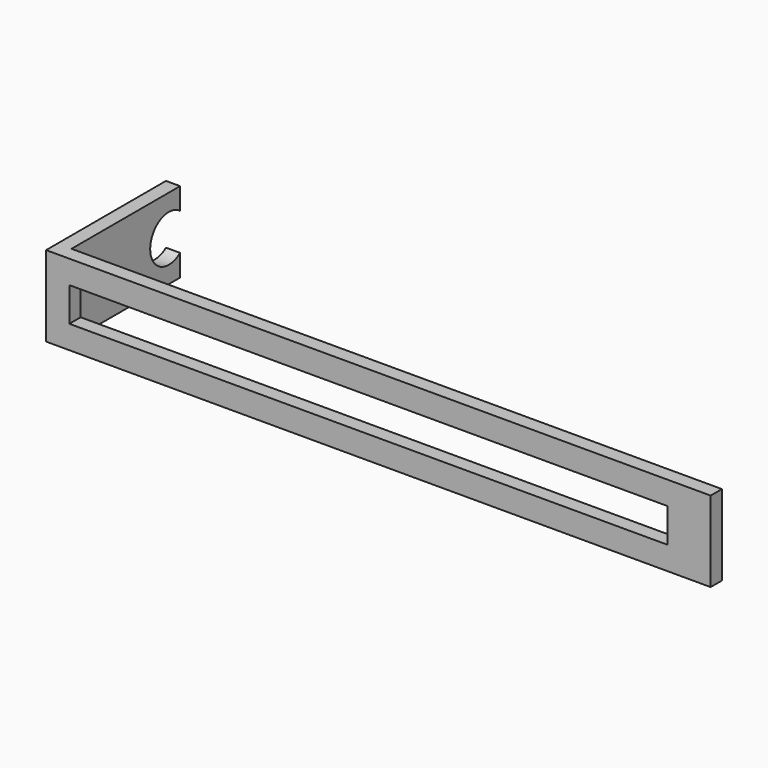
from build123d import *

# Parameters (mm, degrees)
CYLINDER026_R     = 7
CYLINDER026_DEPTH = 64
BOX019_W          = 24.25
BOX019_H          = 40.85
BOX019_DEPTH      = 4.25
BOX026_W          = 180
BOX026_H          = 4.25
BOX026_DEPTH      = 10.25
BOX017_W          = 200
BOX017_H          = 4.25
BOX017_DEPTH      = 24.25


with BuildPart() as syringe2_cylinder001:
    # Cylinder026 → Cylinder026 (new body)
    with BuildSketch(Plane(origin=(-110, 36.6, 15.125), x_dir=(0, 0, 1), z_dir=(-1, 0, 0))):
        Circle(CYLINDER026_R)
    extrude(amount=CYLINDER026_DEPTH)


with BuildPart() as cube002:
    # Box019 → Box019 (new body)
    with BuildSketch(Plane(origin=(-169.75, 0, 3), x_dir=(0, 0, 1), z_dir=(-1, 0, 0))):
        with Locations((12.125, 20.425)):
            Rectangle(BOX019_W, BOX019_H)
    extrude(amount=BOX019_DEPTH)


with BuildPart() as cube003:
    # Box026 → Box026 (new body)
    with BuildSketch(Plane(origin=(-167, -4.25, 10), x_dir=(1, 0, 0), z_dir=(0, 0, 1))):
        with Locations((90, 2.125)):
            Rectangle(BOX026_W, BOX026_H)
    extrude(amount=BOX026_DEPTH)


with BuildPart() as cut006:
    # Box017 → Box017 (new body)
    with BuildSketch(Plane(origin=(-174, -4.25, 3), x_dir=(1, 0, 0), z_dir=(0, 0, 1))):
        with Locations((100, 2.125)):
            Rectangle(BOX017_W, BOX017_H)
    extrude(amount=BOX017_DEPTH)

    # Cut: cut Cube003
    add(cube003.part, mode=Mode.SUBTRACT)

    # Fusion: union Cube002
    add(cube002.part)

    # Cut006: cut syringe2_cylinder001
    add(syringe2_cylinder001.part, mode=Mode.SUBTRACT)


solid = cut006.part
